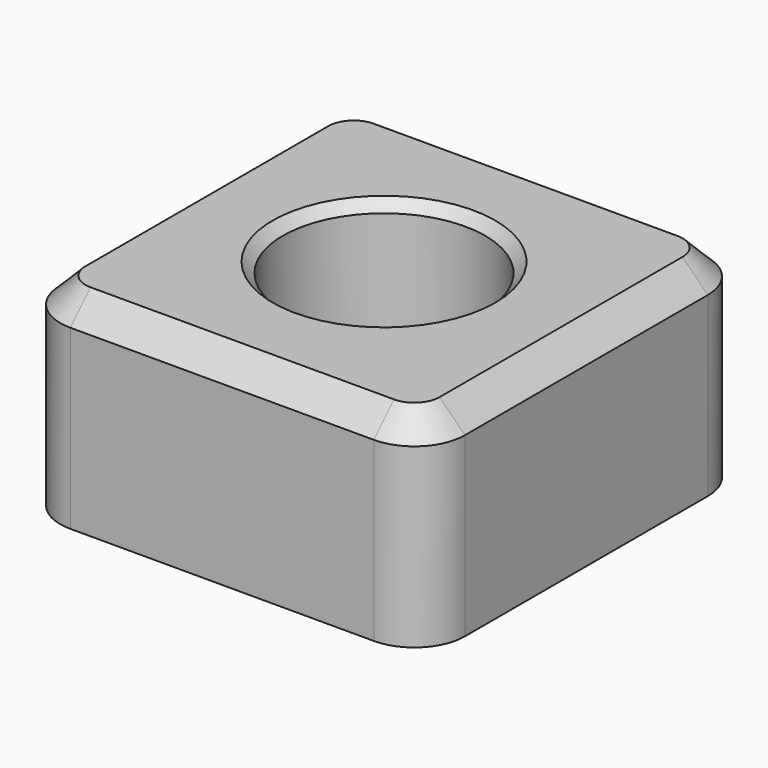
from build123d import *

# Parameters (mm, degrees)
F0_W     = 101.6
F0_H     = 101.6
F1_DEPTH = 50.8
F2_R     = 25.4
F3_DEPTH = 38.1
F4_R     = 12.7
F5_SIZE  = 2.54
F6_SIZE  = 6.35


with BuildPart() as f1:
    # F0 (on Top) → F1 (new body)
    with BuildSketch(Plane.XY):
        with Locations((50.8, 50.8)):
            Rectangle(F0_W, F0_H)
    extrude(amount=F1_DEPTH)

    # F2 (on face) → F3 (cut)
    with BuildSketch(Plane.XY.offset(50.8)):
        with Locations((50.8, 50.8)):
            Circle(F2_R)
    extrude(amount=-F3_DEPTH, mode=Mode.SUBTRACT)

    # F4
    f4_edges = [f1.edges().sort_by_distance(p)[0] for p in [
        (101.6, 0, 25.4),
        (0, 0, 25.4),
        (101.6, 101.6, 25.4),
        (0, 101.6, 25.4),
    ]]
    fillet(f4_edges, radius=F4_R)

    # F5
    f5_edges = [f1.edges().sort_by_distance(p)[0] for p in [
        (25.4, 50.8, 12.7),
        (25.4, 50.8, 50.8),
    ]]
    chamfer(f5_edges, length=F5_SIZE)

    # F6
    f6_edges = [f1.edges().sort_by_distance(p)[0] for p in [
        (0, 50.8, 50.8),
    ]]
    chamfer(f6_edges, length=F6_SIZE)


solid = f1.part
